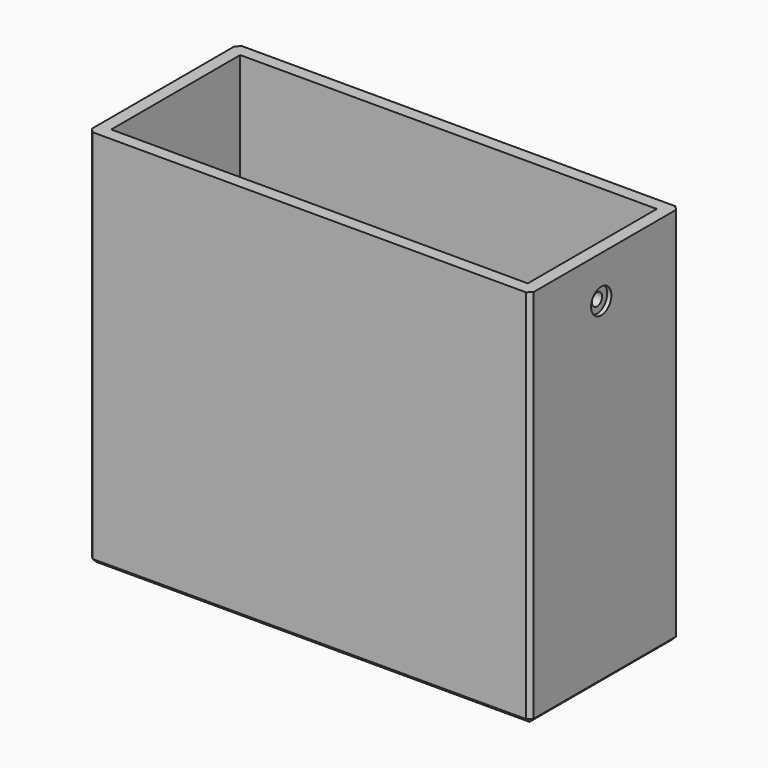
from build123d import *

# Parameters (mm, degrees)
F0_W      = 104.7
F0_H      = 44.2
F0_W_2    = 98.7
F0_H_2    = 38.2
F1_DEPTH  = 90
F2_W      = 98.7
F2_H      = 38.2
F3_DEPTH  = 3
F4_R      = 1.5
F5_DEPTH  = 3
F6_R      = 3
F7_DEPTH  = 1
F8_W      = 48.4
F8_H      = 28
F8_R      = 1.75
F9_DEPTH  = 3
F10_SIZE  = 5
F11_W     = 8
F11_H     = 20
F12_DEPTH = 3
F13_SIZE  = 1
F14_SIZE  = 1
F15_SIZE  = 0.5


with BuildPart() as f1:
    # F0 (on Top) → F1 (new body)
    with BuildSketch(Plane.XY):
        Rectangle(F0_W, F0_H)
        Rectangle(F0_W_2, F0_H_2, mode=Mode.SUBTRACT)
    extrude(amount=F1_DEPTH)

    # F2 (on face) → F3 (join)
    with BuildSketch(Plane(origin=(0, 0, 0), x_dir=(1, 0, 0), z_dir=(0, 0, -1))):
        Rectangle(F2_W, F2_H)
    extrude(amount=-F3_DEPTH)

    # F4 (on face) → F5 (cut)
    with BuildSketch(Plane(origin=(49.35, 0, 0), x_dir=(0, -1, 0), z_dir=(-1, 0, 0))):
        with Locations((1.1, 80)):
            Circle(F4_R)
    extrude(amount=-F5_DEPTH, mode=Mode.SUBTRACT)

    # F6 (on face) → F7 (cut)
    with BuildSketch(Plane.YZ.offset(52.35)):
        with Locations((-1.1, 80)):
            Circle(F6_R)
    extrude(amount=-F7_DEPTH, mode=Mode.SUBTRACT)

    # F8 (on face) → F9 (cut)
    with BuildSketch(Plane(origin=(0, 22.1, 0), x_dir=(-1, 0, 0), z_dir=(0, 1, 0))):
        with Locations((19.15, 28)):
            Rectangle(F8_W, F8_H)
        with Locations((19.15, 8)):
            Circle(F8_R)
        with Locations((19.15, 48)):
            Circle(F8_R)
    extrude(amount=-F9_DEPTH, mode=Mode.SUBTRACT)

    # F10
    f10_edges = [f1.edges().sort_by_distance(p)[0] for p in [
        (-43.35, 20.6, 42),
        (-43.35, 20.6, 14),
    ]]
    chamfer(f10_edges, length=F10_SIZE)

    # F11 (on face) → F12 (cut)
    with BuildSketch(Plane(origin=(0, 22.1, 0), x_dir=(-1, 0, 0), z_dir=(0, 1, 0))):
        with Locations((-44.35, 14)):
            Rectangle(F11_W, F11_H)
        with Locations((-44.35, 39)):
            Rectangle(F11_W, F11_H)
    extrude(amount=-F12_DEPTH, mode=Mode.SUBTRACT)

    # F13
    f13_edges = [f1.edges().sort_by_distance(p)[0] for p in [
        (40.35, 20.6, 24),
        (48.35, 20.6, 24),
        (48.35, 20.6, 4),
        (40.35, 20.6, 4),
        (48.35, 20.6, 29),
        (40.35, 20.6, 29),
        (40.35, 20.6, 49),
        (48.35, 20.6, 49),
    ]]
    chamfer(f13_edges, length=F13_SIZE)

    # F14
    f14_edges = [f1.edges().sort_by_distance(p)[0] for p in [
        (0, 22.1, 0),
        (-52.35, 0, 0),
        (0, -22.1, 0),
        (52.35, 0, 0),
        (52.35, 22.1, 45),
        (52.35, -22.1, 45),
        (-52.35, -22.1, 45),
        (-52.35, 22.1, 45),
    ]]
    chamfer(f14_edges, length=F14_SIZE)

    # F15
    f15_edges = [f1.edges().sort_by_distance(p)[0] for p in [
        (0, -19.1, 3),
        (-49.35, 0, 3),
        (0, 19.1, 3),
        (49.35, 0, 3),
    ]]
    chamfer(f15_edges, length=F15_SIZE)


solid = f1.part
